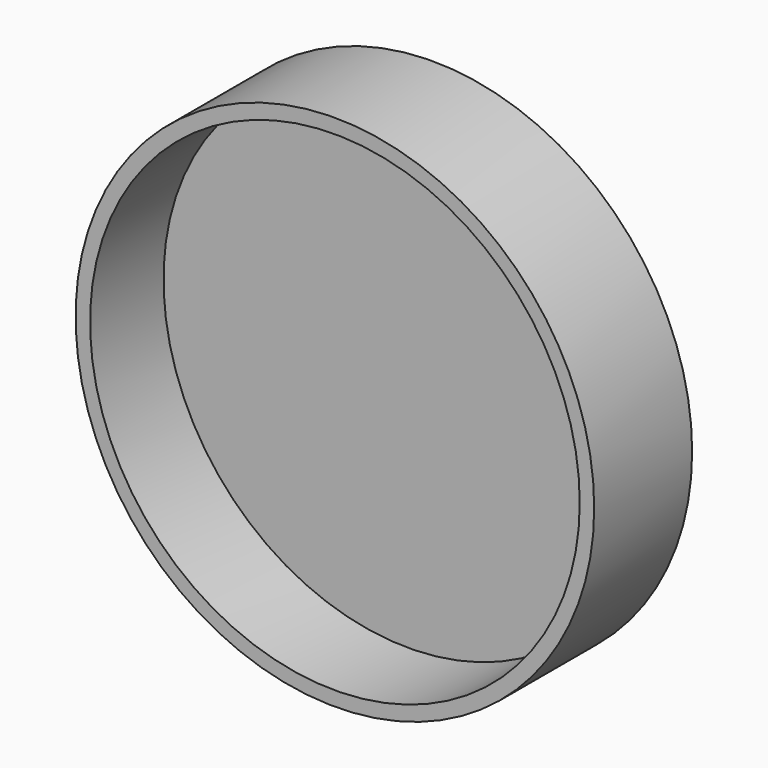
from build123d import *

# Parameters (mm, degrees)
F0_R     = 26.9
F0_R_2   = 25.4
F1_DEPTH = 3.175
F2_DEPTH = 12.7


with BuildPart() as f1:
    # F0 (on Front) → F1 (new body)
    with BuildSketch(Plane.XZ):
        Circle(F0_R)
        Circle(F0_R_2, mode=Mode.SUBTRACT)
        Circle(F0_R_2)
    extrude(amount=F1_DEPTH)

    # F0 (on Front) → F2 (join)
    with BuildSketch(Plane.XZ):
        Circle(F0_R)
        Circle(F0_R_2, mode=Mode.SUBTRACT)
    extrude(amount=F2_DEPTH)


solid = f1.part
